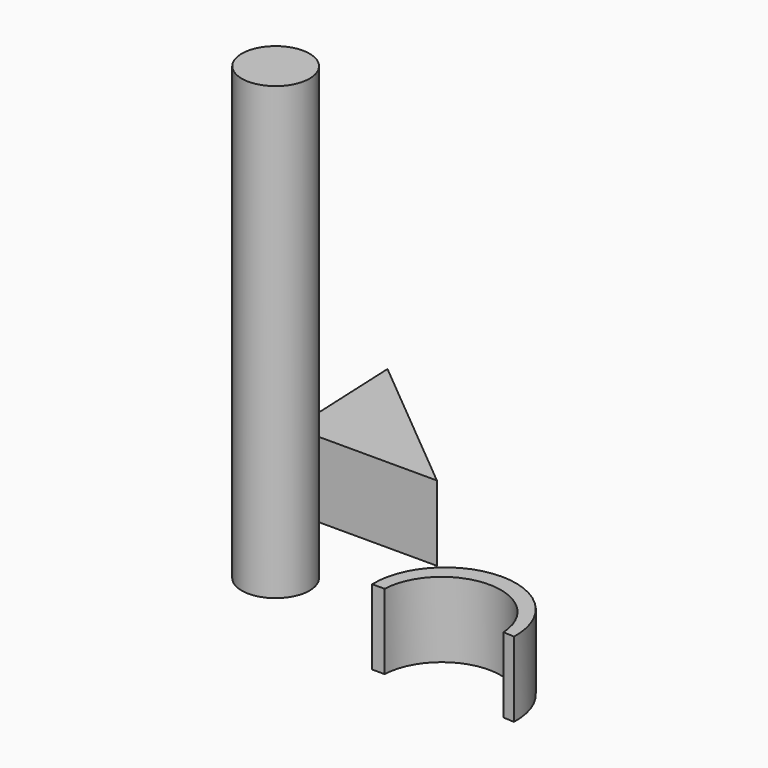
from build123d import *

# Parameters (mm, degrees)
F1_DEPTH = 25.4
F2_R     = 11.455953
F3_DEPTH = 152.4
F5_DEPTH = 25.4
F6_R     = 6.85294
F7_DEPTH = 71.374


with BuildPart() as f1:
    # F0 (on Top) → F1 (new body)
    with BuildSketch(Plane.XY):
        Polygon((-13.257471, 13.257472), (-63.263722, 54.890584), (-61.403025, 13.257472), align=None)
    extrude(amount=F1_DEPTH)


with BuildPart() as f3:
    # F2 (on Top) → F3 (new body)
    with BuildSketch(Plane.XY):
        with Locations((-42.098284, -18.839564)):
            Circle(F2_R)
    extrude(amount=F3_DEPTH)

    # F6 (on face) → F7 (join)
    with BuildSketch(Plane.XY.offset(152.4)):
        with Locations((-42.098284, -18.839564)):
            Circle(F6_R)
    extrude(amount=-F7_DEPTH)


with BuildPart() as f5:
    # F4 (on Top) → F5 (new body)
    with BuildSketch(Plane.XY):
        with BuildLine():
            ThreePointArc((14.652994, -43.726396), (34.544791, -24.568492), (54.657999, -43.493811))
            Line((54.657999, -43.493811), (58.379393, -43.726396))
            ThreePointArc((58.379393, -43.726396), (34.422908, -18.94203), (10.466423, -43.726396))
            Line((10.466423, -43.726396), (14.652994, -43.726396))
        make_face()
        with BuildLine():
            ThreePointArc((14.652994, -43.726396), (34.544791, -24.568492), (54.657999, -43.493811))
            Line((54.657999, -43.493811), (58.379393, -43.726396))
            ThreePointArc((58.379393, -43.726396), (34.422908, -18.94203), (10.466423, -43.726396))
            Line((10.466423, -43.726396), (14.652994, -43.726396))
        make_face()
    extrude(amount=F5_DEPTH)


solid = Compound([f1.part, f3.part, f5.part])
